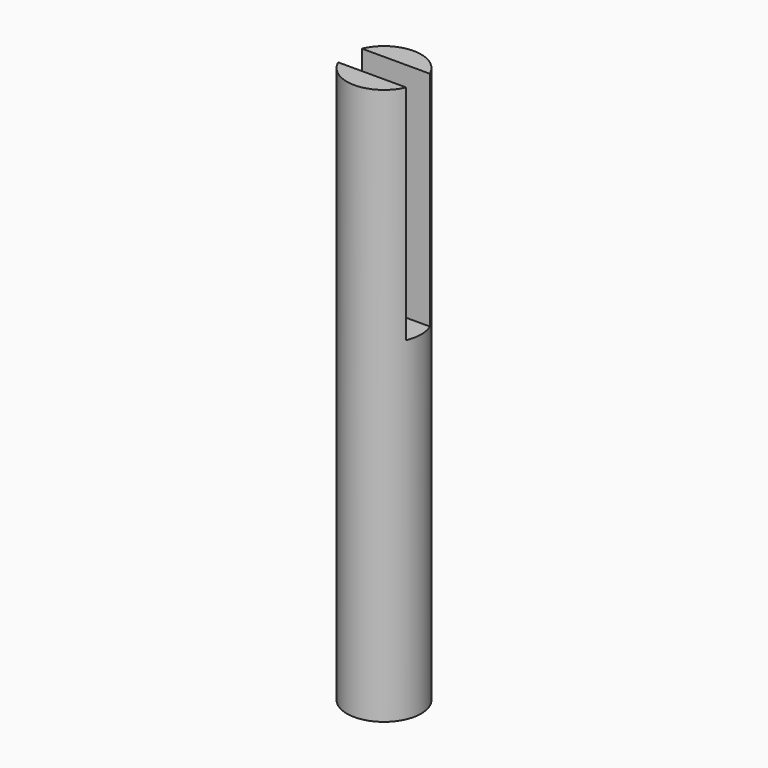
from build123d import *

# Parameters (mm, degrees)
F0_R     = 5
F1_DEPTH = 75
F3_D     = 8
F3_DEPTH = 15
F3_TIP   = 2.4034424761
F4_W     = 2
F4_H     = 30
F5_DEPTH = 12.5


with BuildPart() as f1:
    # F0 (on Top) → F1 (new body)
    with BuildSketch(Plane.XY):
        Circle(F0_R)
    extrude(amount=F1_DEPTH)

    # F3
    with Locations(Plane(origin=(0, 0, 0), x_dir=(1, 0, 0), z_dir=(0, 0, -1))):
        with Locations((0, 0)):
            Hole(F3_D / 2, depth=F3_DEPTH)
            with Locations((0, 0, -(F3_DEPTH + F3_TIP / 2))):  # 118° drill point
                Cone(0, F3_D / 2, F3_TIP, mode=Mode.SUBTRACT)

    # F4 (on Right) → F5 (cut, symmetric)
    with BuildSketch(Plane.YZ):
        with Locations((-1, 60)):
            Rectangle(F4_W, F4_H)
        with Locations((1, 60)):
            Rectangle(F4_W, F4_H)
    extrude(amount=F5_DEPTH, both=True, mode=Mode.SUBTRACT)


solid = f1.part
